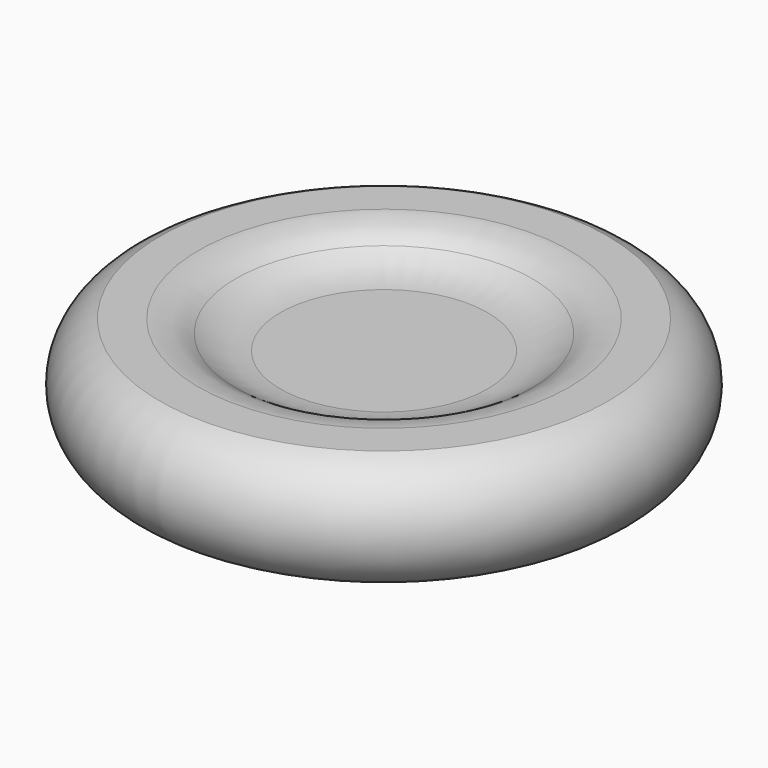
from build123d import *


with BuildPart() as f1:
    # F0 (on Front) → F1 (revolve)
    with BuildSketch(Plane.XZ):
        with BuildLine():
            Line((0, 6.985), (0, 0))
            Line((0, 0), (19.05, 0))
            ThreePointArc((19.05, 0), (21.874831, 4.823213), (18.558002, 9.32229))
            Line((18.558002, 9.32229), (15.368012, 9.32229))
            ThreePointArc((15.368012, 9.32229), (13.73971, 9.049542), (12.289166, 8.261074))
            ThreePointArc((12.289166, 8.261074), (10.54494, 7.312969), (8.586967, 6.985))
            Line((8.586967, 6.985), (0, 6.985))
        make_face()
    revolve(axis=Axis((0, 0, 6.35), (0, 0, 1)))


solid = f1.part
